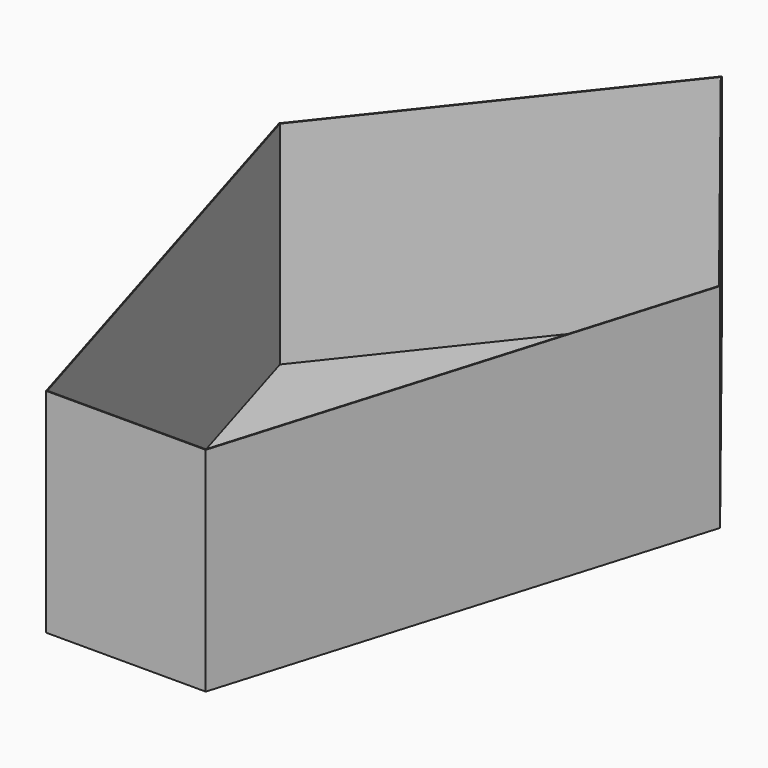
from build123d import *

# Parameters (mm, degrees)
F1_DEPTH = 609.6
F2_T     = -2.54


with BuildPart() as f1:
    # F0 (on Top) → F1 (new body)
    with BuildSketch(Plane.XY):
        Polygon((-228.6, 0), (0, 0), (0, 2133.6), (-631.449106, 1337.655261), align=None)
        Polygon((0, 2133.6), (0, 0), (228.6, 0), (631.449106, 1337.655261), align=None)
    extrude(amount=F1_DEPTH)

    # F2
    f2_openings = [f1.faces().sort_by_distance(p)[0] for p in [
        (0, 1025.524209, 609.6),
    ]]
    offset(amount=F2_T, openings=f2_openings)


solid = f1.part
